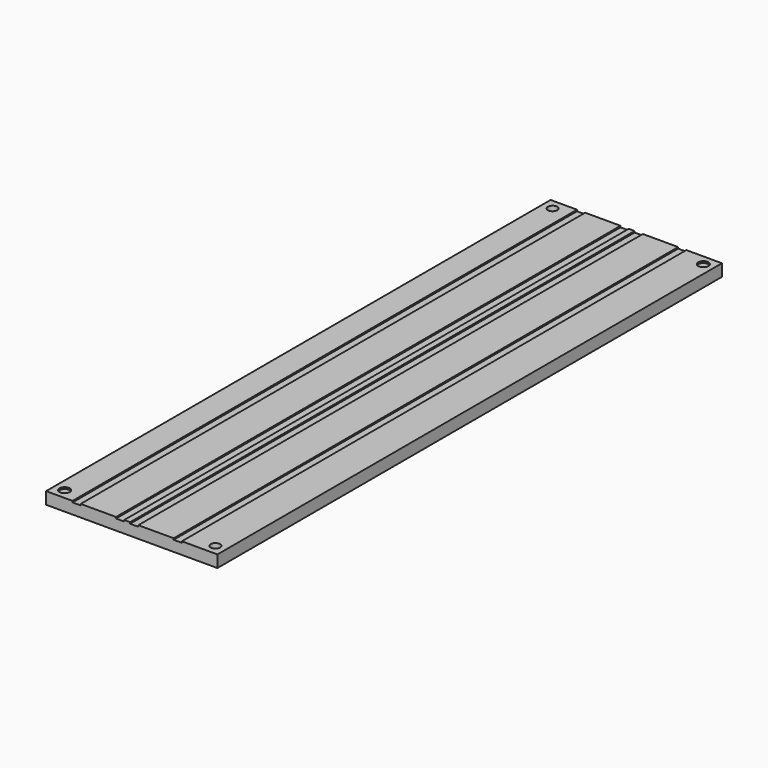
from build123d import *

# Parameters (mm, degrees)
F0_W     = 49.8404
F0_H     = 183.4444
F0_R     = 1.5
F0_R_2   = 1.375
F1_DEPTH = 0.5
F2_W     = 49.8404
F2_H     = 183.4444
F2_R     = 1.375
F3_DEPTH = 3
F4_W     = 2.381
F4_H     = 183.4444
F5_DEPTH = 0.4


with BuildPart() as f1:
    # F0 (on Top) → F1 (new body)
    with BuildSketch(Plane.XY):
        with Locations((21.9202, 88.7222)):
            Rectangle(F0_W, F0_H)
        Circle(F0_R, mode=Mode.SUBTRACT)
        with Locations((43.8404, 0)):
            Circle(F0_R_2, mode=Mode.SUBTRACT)
        with Locations((0, 177.4444)):
            Circle(F0_R_2, mode=Mode.SUBTRACT)
        with Locations((43.8404, 177.4444)):
            Circle(F0_R, mode=Mode.SUBTRACT)
    extrude(amount=F1_DEPTH)

    # F2 (on face) → F3 (join)
    with BuildSketch(Plane(origin=(0, 0, 0), x_dir=(1, 0, 0), z_dir=(0, 0, -1))):
        with Locations((21.9202, -88.7222)):
            Rectangle(F2_W, F2_H)
        with Locations((0, -177.4444)):
            Circle(F2_R, mode=Mode.SUBTRACT)
        with Locations((43.8404, 0)):
            Circle(F2_R, mode=Mode.SUBTRACT)
    extrude(amount=F3_DEPTH)

    # F4 (on face) → F5 (cut)
    with BuildSketch(Plane.XY.offset(0.5)):
        with Locations((5.8755, 88.7222)):
            Rectangle(F4_W, F4_H)
        with Locations((18.5415, 88.7222)):
            Rectangle(F4_W, F4_H)
        with Locations((22.6395, 88.7222)):
            Rectangle(F4_W, F4_H)
        with Locations((35.3055, 88.7222)):
            Rectangle(F4_W, F4_H)
    extrude(amount=-F5_DEPTH, mode=Mode.SUBTRACT)


solid = f1.part
